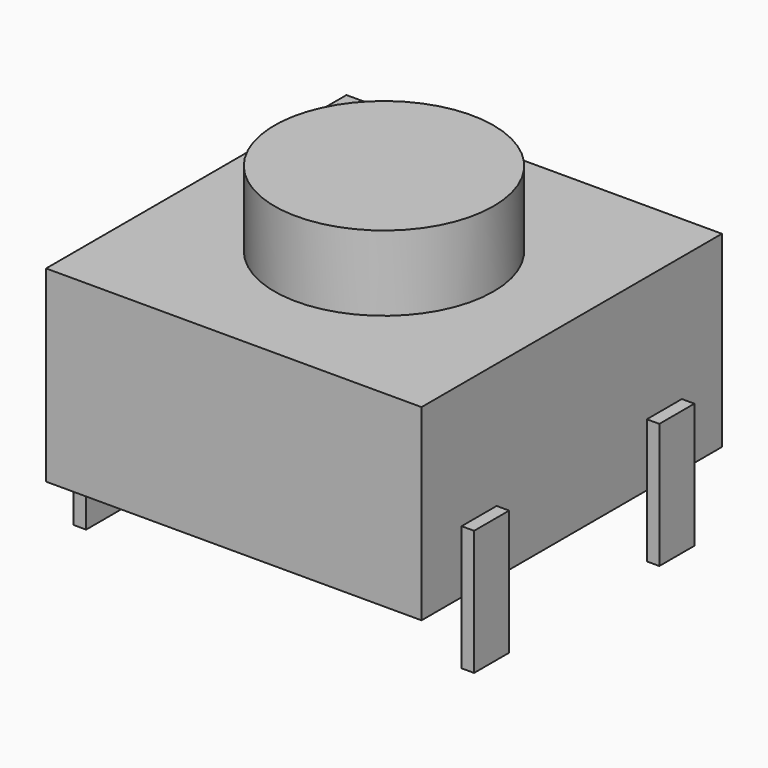
from build123d import *

# Parameters (mm, degrees)
SKETCH_W     = 6
SKETCH_H     = 6
PAD_DEPTH    = 3
SKETCH001_R  = 1.75
PAD001_DEPTH = 1.2
SKETCH002_W  = 0.2
SKETCH002_H  = 0.7
PAD002_DEPTH = 1


with BuildPart() as part:
    # Sketch → Pad (new body)
    with BuildSketch(Plane.XY):
        Rectangle(SKETCH_W, SKETCH_H)
    extrude(amount=PAD_DEPTH)

    # Sketch001 (on Face6 of Pad) → Pad001 (join)
    with BuildSketch(Plane.XY.offset(3)):
        Circle(SKETCH001_R)
    extrude(amount=PAD001_DEPTH)

    # Sketch002 (on Face4 of Pad001) → Pad002 (join, symmetric)
    with BuildSketch(Plane(origin=(0, 0, 0), x_dir=(1, 0, 0), z_dir=(0, 0, -1))):
        with Locations((-3.1, 1.85)):
            Rectangle(SKETCH002_W, SKETCH002_H)
        with Locations((-3.1, -1.85)):
            Rectangle(SKETCH002_W, SKETCH002_H)
    pad002 = extrude(amount=PAD002_DEPTH, both=True)

    # Mirrored: Pad002 across YZ
    add(pad002.mirror(Plane.YZ))


solid = part.part
